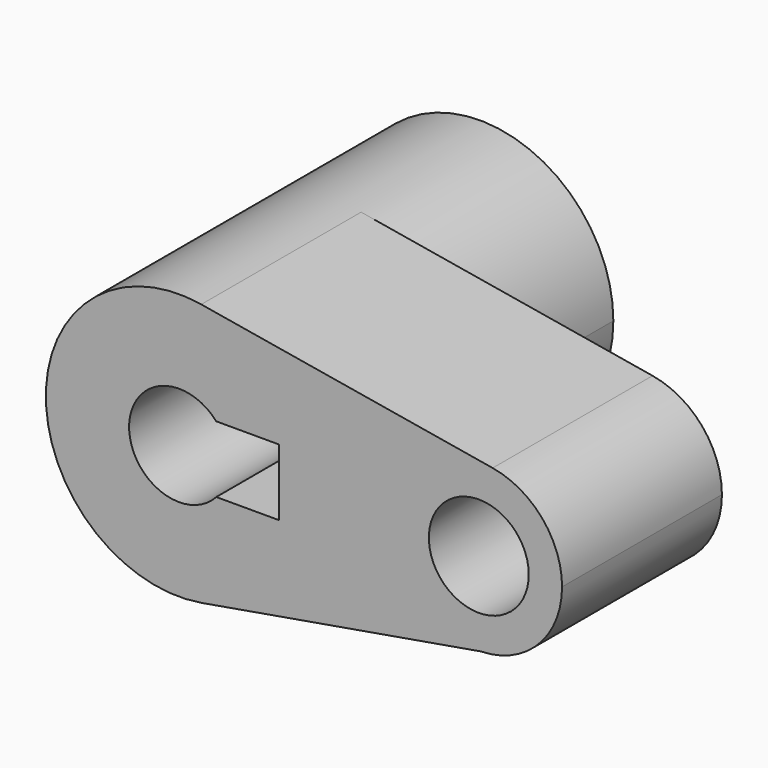
from build123d import *

# Parameters (mm, degrees)
F0_R     = 15
F1_DEPTH = 60
F2_DEPTH = 53


with BuildPart() as f1:
    # F0 (on Front) → F1 (new body)
    with BuildSketch(Plane.XZ):
        with BuildLine():
            ThreePointArc((6.7869728258, -39.4200076086), (30.5898587201, -25.7732524817), (40, 0))
            ThreePointArc((40, 0), (30.550504633, 25.8198889747), (6.6666666667, 39.4405318873))
            ThreePointArc((6.6666666667, 39.4405318873), (-39.9999534537, -0.0610221639), (6.7869728258, -39.4200076086))
        make_face()
        with BuildLine():
            ThreePointArc((-11.1803398875, 10), (0, 15), (11.1803398875, 10))
            Line((11.1803398875, 10), (30, 10))
            Line((30, 10), (30, -10))
            Line((30, -10), (11.1803398875, -10))
            ThreePointArc((11.1803398875, -10), (0, -15), (-11.1803398875, -10))
            Line((-11.1803398875, -10), (-30, -10))
            Line((-30, -10), (-30, 10))
            Line((-30, 10), (-11.1803398875, 10))
        make_face(mode=Mode.SUBTRACT)
        with BuildLine():
            ThreePointArc((-11.1803398875, -10), (-15, 0), (-11.1803398875, 10))
            Line((-11.1803398875, 10), (-30, 10))
            Line((-30, 10), (-30, -10))
            Line((-30, -10), (-11.1803398875, -10))
        make_face()
        with BuildLine():
            ThreePointArc((6.6666666667, 39.4405318873), (30.550504633, 25.8198889747), (40, 0))
            ThreePointArc((40, 0), (30.5898587201, -25.7732524817), (6.7869728258, -39.4200076086))
            Line((6.7869728258, -39.4200076086), (90.5801813232, -24.9932668859))
            ThreePointArc((90.5801813232, -24.9932668859), (65.0649868717, 1.8014217413), (94.1666666667, 24.6503324296))
            Line((94.1666666667, 24.6503324296), (6.6666666667, 39.4405318873))
        make_face()
        with BuildLine():
            ThreePointArc((115, 0), (109.0940653956, 16.1374306092), (94.1666666667, 24.6503324296))
            ThreePointArc((94.1666666667, 24.6503324296), (65.0649868717, 1.8014217413), (90.5801813232, -24.9932668859))
            ThreePointArc((90.5801813232, -24.9932668859), (107.8816181186, -17.4713403453), (115, 0))
        make_face()
        with Locations((90, 0)):
            Circle(F0_R, mode=Mode.SUBTRACT)
    extrude(amount=F1_DEPTH)

    # F0 (on Front) → F2 (join)
    with BuildSketch(Plane.XZ):
        with BuildLine():
            ThreePointArc((6.7869728258, -39.4200076086), (30.5898587201, -25.7732524817), (40, 0))
            ThreePointArc((40, 0), (30.550504633, 25.8198889747), (6.6666666667, 39.4405318873))
            ThreePointArc((6.6666666667, 39.4405318873), (-39.9999534537, -0.0610221639), (6.7869728258, -39.4200076086))
        make_face()
        with BuildLine():
            ThreePointArc((-11.1803398875, 10), (0, 15), (11.1803398875, 10))
            Line((11.1803398875, 10), (30, 10))
            Line((30, 10), (30, -10))
            Line((30, -10), (11.1803398875, -10))
            ThreePointArc((11.1803398875, -10), (0, -15), (-11.1803398875, -10))
            Line((-11.1803398875, -10), (-30, -10))
            Line((-30, -10), (-30, 10))
            Line((-30, 10), (-11.1803398875, 10))
        make_face(mode=Mode.SUBTRACT)
        with BuildLine():
            ThreePointArc((-11.1803398875, -10), (-15, 0), (-11.1803398875, 10))
            Line((-11.1803398875, 10), (-30, 10))
            Line((-30, 10), (-30, -10))
            Line((-30, -10), (-11.1803398875, -10))
        make_face()
    extrude(amount=-F2_DEPTH)


solid = f1.part
